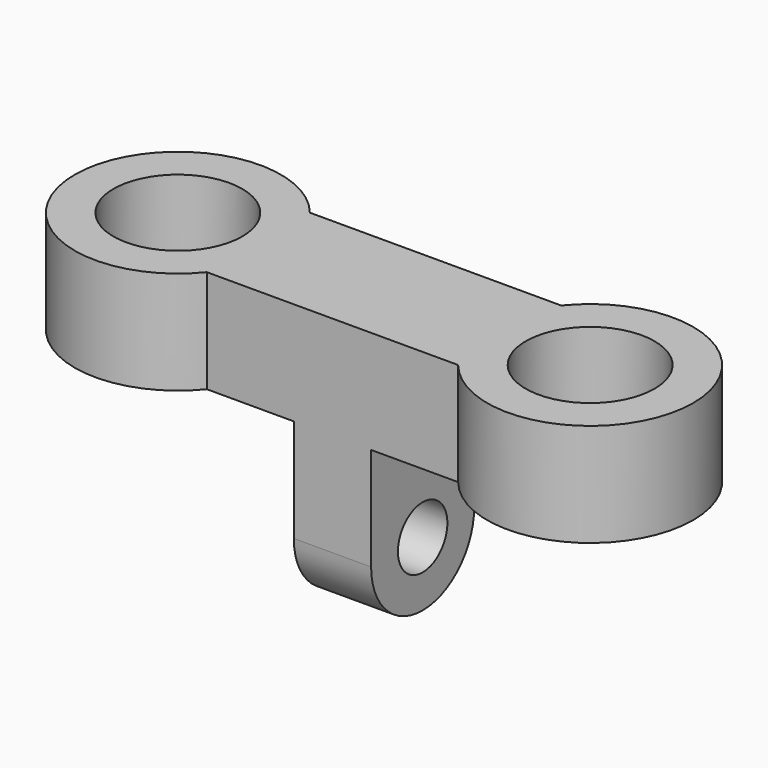
from build123d import *

# Parameters (mm, degrees)
F0_R     = 12.5
F1_DEPTH = 10
F2_R     = 6
F3_DEPTH = 7.5


with BuildPart() as f1:
    # F0 (on Top) → F1 (new body, symmetric)
    with BuildSketch(Plane.XY):
        with BuildLine():
            Line((24.387505, 12.5), (-24.387505, 12.5))
            ThreePointArc((-24.387505, 12.5), (-60, 0), (-24.387505, -12.5))
            Line((-24.387505, -12.5), (24.387505, -12.5))
            ThreePointArc((24.387505, -12.5), (60, 0), (24.387505, 12.5))
        make_face()
        with Locations((-40, 0)):
            Circle(F0_R, mode=Mode.SUBTRACT)
        with Locations((40, 0)):
            Circle(F0_R, mode=Mode.SUBTRACT)
    extrude(amount=F1_DEPTH, both=True)

    # F2 (on Right) → F3 (join, symmetric)
    with BuildSketch(Plane.YZ):
        with BuildLine():
            Line((12.5, -10), (-12.5, -10))
            Line((-12.5, -10), (-12.5, -30))
            ThreePointArc((-12.5, -30), (0, -42.5), (12.5, -30))
            Line((12.5, -30), (12.5, -10))
        make_face()
        with Locations((0, -30)):
            Circle(F2_R, mode=Mode.SUBTRACT)
    extrude(amount=F3_DEPTH, both=True)


solid = f1.part
